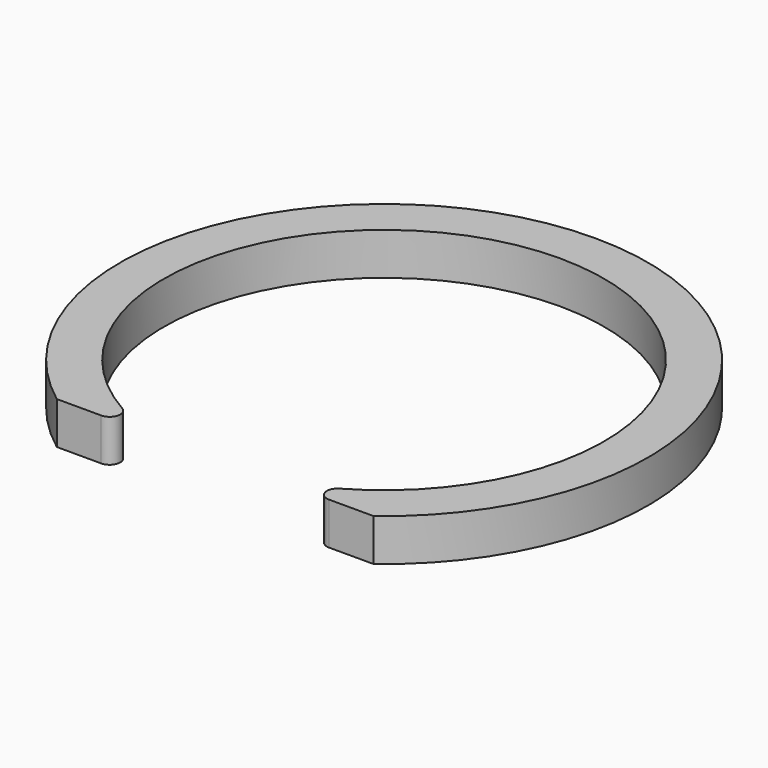
from build123d import *

# Parameters (mm, degrees)
F1_DEPTH = 2.032
F2_R     = 0.508


with BuildPart() as f1:
    # F0 (on Top) → F1 (new body)
    with BuildSketch(Plane.XY):
        with BuildLine():
            ThreePointArc((-2.993431, -10.16), (0, 10.5918), (2.993431, -10.16))
            Line((2.993431, -10.16), (7.62, -10.16))
            ThreePointArc((7.62, -10.16), (0, 12.7), (-7.62, -10.16))
            Line((-7.62, -10.16), (-2.993431, -10.16))
        make_face()
    extrude(amount=F1_DEPTH)

    # F2
    f2_edges = [f1.edges().sort_by_distance(p)[0] for p in [
        (-2.993431, -10.16, 1.016),
        (2.993431, -10.16, 1.016),
    ]]
    fillet(f2_edges, radius=F2_R)


solid = f1.part
